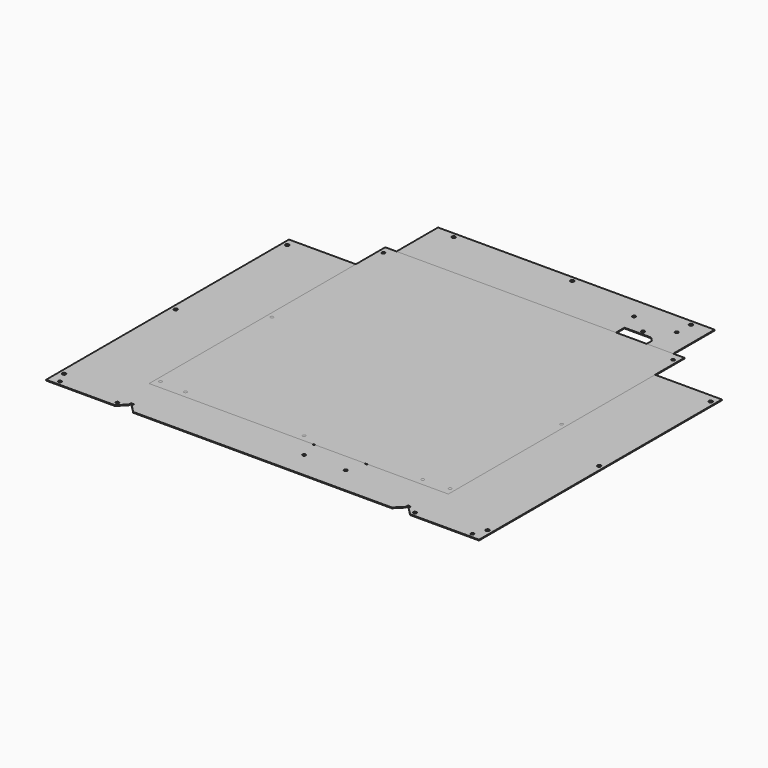
from build123d import *

# Parameters (mm, degrees)
F0_R     = 2.7051
F0_W     = 118.6896788
F0_H     = 1.428369
F0_H_2   = 1.4283436
F0_R_2   = 2.3876
F0_W_2   = 1.4283436
F0_H_3   = 450.793231
F0_W_3   = 1.428369
F0_W_4   = 424.6281576
F0_R_3   = 2.4003
F0_R_4   = 2.1082
F0_W_5   = 424.6820564
F0_W_6   = 428.5996
F0_H_4   = 15.875
F1_DEPTH = 1.2192
F2_W     = 14.605
F2_H     = 457.2
F2_R     = 2.3876
F2_W_2   = 1.4283436
F2_W_3   = 1.428369
F2_W_4   = 428.5488
F3_DEPTH = 1.2192


with BuildPart() as f1:
    # F0 (on Top) → F1 (new body)
    with BuildSketch(Plane.XY):
        Polygon((-216.6530338, -268.4397476), (-215.9119126, -268.4397476), (-215.9119126, 182.3534834), (-216.6260844, 182.3534834), (-216.6260844, 185.5568806), (-335.3427126, 185.5568806), (-335.3427126, -269.1539194), (-216.6530338, -269.1539194), align=None)
        with Locations((-328.0402126, -258.9431194)):
            Circle(F0_R, mode=Mode.SUBTRACT)
        with Locations((-328.0402126, -43.0431194)):
            Circle(F0_R, mode=Mode.SUBTRACT)
        with Locations((-328.0402126, 172.8568806)):
            Circle(F0_R, mode=Mode.SUBTRACT)
        with Locations((-275.9978732, -269.8681039)):
            Rectangle(F0_W, F0_H)
        with Locations((-275.9978732, -271.2964602)):
            Rectangle(F0_W, F0_H_2)
        Polygon((-216.6530338, -272.7248292), (-216.6530338, -272.010632), (-335.3427126, -272.010632), (-335.3427126, -284.761432), (-228.6806704, -284.761432), (-216.6440422, -272.7248292), align=None)
        with Locations((-319.4677126, -277.813008)):
            Circle(F0_R_2, mode=Mode.SUBTRACT)
        with Locations((-230.5677126, -277.813008)):
            Circle(F0_R_2, mode=Mode.SUBTRACT)
        with Locations((-215.1977408, -43.0431321)):
            Rectangle(F0_W_2, F0_H_3)
        with Locations((-213.7693845, -43.0431321)):
            Rectangle(F0_W_3, F0_H_3)
        with Locations((0, -269.8681039)):
            Rectangle(F0_W_4, F0_H)
        with Locations((0, -271.2964602)):
            Rectangle(F0_W_4, F0_H_2)
        Polygon((212.3140788, -272.7248292), (212.3140788, -272.010632), (-212.3140788, -272.010632), (-212.3140788, -272.7248292), (-212.3230704, -272.7248292), (-200.2864422, -284.761432), (200.2864422, -284.761432), (212.3230704, -272.7248292), align=None)
        Polygon((212.3140788, -268.4397476), (213.0552, -268.4397476), (213.0552, 182.3534834), (212.3410282, 182.3534834), (212.3410282, 183.0676806), (-212.3410282, 183.0676806), (-212.3410282, 182.3534834), (-213.0552, 182.3534834), (-213.0552, -268.4397476), (-212.3140788, -268.4397476), (-212.3140788, -269.1539194), (212.3140788, -269.1539194), align=None)
        with Locations((31.5094112, -243.6210774)):
            Circle(F0_R_3, mode=Mode.SUBTRACT)
        with Locations((24.1484912, -213.4077774)):
            Circle(F0_R, mode=Mode.SUBTRACT)
        with Locations((95.8450712, -243.6210774)):
            Circle(F0_R_3, mode=Mode.SUBTRACT)
        with Locations((105.1490912, -213.4077774)):
            Circle(F0_R, mode=Mode.SUBTRACT)
        with Locations((24.1484912, -143.4053774)):
            Circle(F0_R, mode=Mode.SUBTRACT)
        with Locations((105.1490912, -143.4053774)):
            Circle(F0_R, mode=Mode.SUBTRACT)
        with Locations((31.5094112, -113.1920774)):
            Circle(F0_R_3, mode=Mode.SUBTRACT)
        with Locations((95.8450712, -113.1920774)):
            Circle(F0_R_3, mode=Mode.SUBTRACT)
        with Locations((-203.0227842, 44.2389006)):
            Circle(F0_R_4, mode=Mode.SUBTRACT)
        with Locations((-176.3590834, 52.3976092)):
            Circle(F0_R_4, mode=Mode.SUBTRACT)
        with Locations((-178.8590784, 106.9976016)):
            Circle(F0_R_4, mode=Mode.SUBTRACT)
        with Locations((-203.0227842, 145.2763668)):
            Circle(F0_R_4, mode=Mode.SUBTRACT)
        with Locations((-119.8090822, 52.3976092)):
            Circle(F0_R_4, mode=Mode.SUBTRACT)
        with Locations((-97.6765636, 83.3543672)):
            Circle(F0_R_4, mode=Mode.SUBTRACT)
        with Locations((-3.6965636, 83.3543672)):
            Circle(F0_R_4, mode=Mode.SUBTRACT)
        with Locations((-115.9178784, 106.9976016)):
            Circle(F0_R_4, mode=Mode.SUBTRACT)
        with Locations((-97.6765636, 132.8843672)):
            Circle(F0_R_4, mode=Mode.SUBTRACT)
        with Locations((-3.6965636, 132.8843672)):
            Circle(F0_R_4, mode=Mode.SUBTRACT)
        with Locations((63.3264418, 66.2315668)):
            Circle(F0_R_4, mode=Mode.SUBTRACT)
        with Locations((63.3194314, 151.637365)):
            Circle(F0_R_4, mode=Mode.SUBTRACT)
        with Locations((213.7693718, -43.0431321)):
            Rectangle(F0_W_2, F0_H_3)
        with Locations((215.1977281, -43.0431321)):
            Rectangle(F0_W_3, F0_H_3)
        Polygon((215.9119126, 182.3534834), (215.9119126, -268.4397476), (216.6530338, -268.4397476), (216.6530338, -269.1539194), (335.3427126, -269.1539194), (335.3427126, 185.5568806), (216.6260844, 185.5568806), (216.6260844, 182.3534834), align=None)
        with Locations((328.0402126, -258.9431194)):
            Circle(F0_R, mode=Mode.SUBTRACT)
        with Locations((328.0402126, -43.0431194)):
            Circle(F0_R, mode=Mode.SUBTRACT)
        with Locations((328.0402126, 172.8568806)):
            Circle(F0_R, mode=Mode.SUBTRACT)
        with Locations((275.9978732, -269.8681039)):
            Rectangle(F0_W, F0_H)
        with Locations((275.9978732, -271.2964602)):
            Rectangle(F0_W, F0_H_2)
        Polygon((335.3427126, -272.010632), (216.6530338, -272.010632), (216.6530338, -272.7248292), (216.6440422, -272.7248292), (228.6806704, -284.761432), (335.3427126, -284.761432), align=None)
        with Locations((230.5677126, -277.813008)):
            Circle(F0_R_2, mode=Mode.SUBTRACT)
        with Locations((319.4677126, -277.813008)):
            Circle(F0_R_2, mode=Mode.SUBTRACT)
        Polygon((-212.3410282, 185.9243932), (212.3410282, 185.9243932), (212.3410282, 186.638565), (214.2998, 186.638565), (214.2998, 304.1359932), (-214.2998, 304.1359932), (-214.2998, 186.638565), (-212.3410282, 186.638565), align=None)
        with Locations((116.4844, 201.1262932)):
            Circle(F0_R_3, mode=Mode.SUBTRACT)
        with Locations((149.5171, 225.0911932)):
            Circle(F0_R, mode=Mode.SUBTRACT)
        Polygon((166.9161, 231.1871932), (125.7681, 231.1871932), (125.7681, 258.8731932), (166.9161, 258.8731932), (173.2661, 252.5231932), (173.2661, 237.5371932), align=None, mode=Mode.SUBTRACT)
        with Locations((149.5171, 264.9691932)):
            Circle(F0_R, mode=Mode.SUBTRACT)
        with Locations((116.4844, 288.9340932)):
            Circle(F0_R_3, mode=Mode.SUBTRACT)
        with Locations((182.5498, 201.1262932)):
            Circle(F0_R_3, mode=Mode.SUBTRACT)
        with Locations((182.5498, 288.9340932)):
            Circle(F0_R_3, mode=Mode.SUBTRACT)
        with Locations((0, 185.2102087)):
            Rectangle(F0_W_5, F0_H)
        with Locations((0, 183.7818524)):
            Rectangle(F0_W_5, F0_H_2)
        with Locations((0, 314.9302058)):
            Rectangle(F0_W_6, F0_H_4)
        with Locations((-183.7944, 314.9302058)):
            Circle(F0_R, mode=Mode.SUBTRACT)
        with Locations((0, 314.9302058)):
            Circle(F0_R, mode=Mode.SUBTRACT)
        with Locations((183.7944, 314.9302058)):
            Circle(F0_R, mode=Mode.SUBTRACT)
        with Locations((0, 306.2785213)):
            Rectangle(F0_W_6, F0_H)
        with Locations((0, 304.850165)):
            Rectangle(F0_W_6, F0_H_2)
    extrude(amount=F1_DEPTH)


with BuildPart() as f3:
    # F2 (on Top) → F3 (new body)
    with BuildSketch(Plane.XY):
        with Locations((-224.4336126, 13.8728196)):
            Rectangle(F2_W, F2_H)
        with Locations((-224.4336126, -202.0271804)):
            Circle(F2_R, mode=Mode.SUBTRACT)
        with Locations((-224.4336126, 13.8728196)):
            Circle(F2_R, mode=Mode.SUBTRACT)
        with Locations((-224.4336126, 229.7728196)):
            Circle(F2_R, mode=Mode.SUBTRACT)
        with Locations((-216.4169408, 13.8728196)):
            Rectangle(F2_W_2, F2_H)
        with Locations((-214.9885845, 13.8728196)):
            Rectangle(F2_W_3, F2_H)
        with Locations((0, 13.8728196)):
            Rectangle(F2_W_4, F2_H)
        with Locations((-183.7944, -204.3004804)):
            Circle(F2_R, mode=Mode.SUBTRACT)
        with Locations((0, -204.3004804)):
            Circle(F2_R, mode=Mode.SUBTRACT)
        with Locations((183.7944, -204.3004804)):
            Circle(F2_R, mode=Mode.SUBTRACT)
        with Locations((214.9885718, 13.8728196)):
            Rectangle(F2_W_2, F2_H)
        with Locations((216.4169281, 13.8728196)):
            Rectangle(F2_W_3, F2_H)
        with Locations((224.4336126, 13.8728196)):
            Rectangle(F2_W, F2_H)
        with Locations((224.4336126, -202.0271804)):
            Circle(F2_R, mode=Mode.SUBTRACT)
        with Locations((224.4336126, 13.8728196)):
            Circle(F2_R, mode=Mode.SUBTRACT)
        with Locations((224.4336126, 229.7728196)):
            Circle(F2_R, mode=Mode.SUBTRACT)
    extrude(amount=F3_DEPTH)


solid = Compound([f1.part, f3.part])
